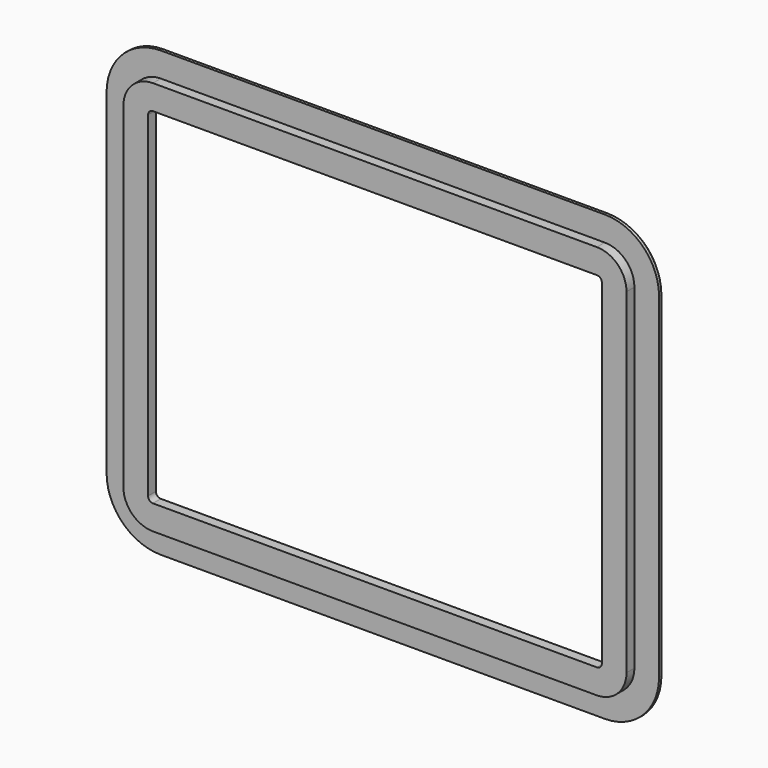
from build123d import *

# Parameters (mm, degrees)
PAD_DEPTH       = 8
PAD001_DEPTH    = 10
POCKET_DEPTH    = 18
POCKET001_DEPTH = 8
POCKET002_DEPTH = 5
CHAMFER_SIZE    = 5


with BuildPart() as part:
    # Sketch → Pad (new body)
    with BuildSketch(Plane.XZ):
        with BuildLine():
            Line((-280, 170), (-280, -170))
            ThreePointArc((-280, -170), (-263.890873, -208.890873), (-225, -225))
            Line((-225, -225), (225, -225))
            ThreePointArc((225, -225), (263.890873, -208.890873), (280, -170))
            Line((280, -170), (280, 170))
            ThreePointArc((280, 170), (263.890873, 208.890873), (225, 225))
            Line((225, 225), (-225, 225))
            ThreePointArc((-225, 225), (-263.890873, 208.890873), (-280, 170))
        make_face()
    extrude(amount=PAD_DEPTH)

    # Sketch001 (on Face10 of Pad) → Pad001 (join)
    with BuildSketch(Plane.XZ.offset(8)):
        with BuildLine():
            Line((-255, 170), (-255, -170))
            ThreePointArc((-255, -170), (-246.213203, -191.213203), (-225, -200))
            Line((-225, -200), (225, -200))
            ThreePointArc((225, -200), (246.213203, -191.213203), (255, -170))
            Line((255, -170), (255, 170))
            ThreePointArc((255, 170), (246.213203, 191.213203), (225, 200))
            Line((225, 200), (-225, 200))
            ThreePointArc((-225, 200), (-246.213203, 191.213203), (-255, 170))
        make_face()
    extrude(amount=PAD001_DEPTH)

    # Sketch002 (on Face4 of Pad001) → Pocket (cut)
    with BuildSketch(Plane(origin=(0, 0, 0), x_dir=(1, 0, 0), z_dir=(0, 1, 0))):
        with BuildLine():
            Line((-230, 170), (-230, -170))
            ThreePointArc((-230, -170), (-228.535534, -173.535534), (-225, -175))
            Line((-225, -175), (225, -175))
            ThreePointArc((225, -175), (228.535534, -173.535534), (230, -170))
            Line((230, -170), (230, 170))
            ThreePointArc((230, 170), (228.535534, 173.535534), (225, 175))
            Line((225, 175), (-225, 175))
            ThreePointArc((-225, 175), (-228.535534, 173.535534), (-230, 170))
        make_face()
    extrude(amount=-POCKET_DEPTH, mode=Mode.SUBTRACT)

    # Sketch003 (on Face4 of Pocket) → Pocket001 (cut)
    with BuildSketch(Plane(origin=(0, 0, 0), x_dir=(1, 0, 0), z_dir=(0, 1, 0))):
        with BuildLine():
            Line((-250, 170), (-250, -170))
            ThreePointArc((-250, -170), (-242.67767, -187.67767), (-225, -195))
            Line((-225, -195), (225, -195))
            ThreePointArc((225, -195), (242.67767, -187.67767), (250, -170))
            Line((250, -170), (250, 170))
            ThreePointArc((250, 170), (242.67767, 187.67767), (225, 195))
            Line((225, 195), (-225, 195))
            ThreePointArc((-225, 195), (-242.67767, 187.67767), (-250, 170))
        make_face()
    extrude(amount=-POCKET001_DEPTH, mode=Mode.SUBTRACT)

    # Sketch004 (on Face27 of Pocket001) → Pocket002 (cut)
    with BuildSketch(Plane(origin=(0, -8, 0), x_dir=(1, 0, 0), z_dir=(0, 1, 0))):
        with BuildLine():
            Line((-244.5, 170), (-244.5, -170))
            ThreePointArc((-244.5, -170), (-238.788582, -183.788582), (-225, -189.5))
            Line((-225, -189.5), (225, -189.5))
            ThreePointArc((225, -189.5), (238.788582, -183.788582), (244.5, -170))
            Line((244.5, -170), (244.5, 170))
            ThreePointArc((244.5, 170), (238.788582, 183.788582), (225, 189.5))
            Line((225, 189.5), (-225, 189.5))
            ThreePointArc((-225, 189.5), (-238.788582, 183.788582), (-244.5, 170))
        make_face()
        with BuildLine():
            Line((-240, 170), (-240, -170))
            ThreePointArc((-240, -170), (-235.606602, -180.606602), (-225, -185))
            Line((-225, -185), (225, -185))
            ThreePointArc((225, -185), (235.606602, -180.606602), (240, -170))
            Line((240, -170), (240, 170))
            ThreePointArc((240, 170), (235.606602, 180.606602), (225, 185))
            Line((225, 185), (-225, 185))
            ThreePointArc((-225, 185), (-235.606602, 180.606602), (-240, 170))
        make_face(mode=Mode.SUBTRACT)
    extrude(amount=-POCKET002_DEPTH, mode=Mode.SUBTRACT)

    # Chamfer
    chamfer_edges = [part.edges().sort_by_distance(p)[0] for p in [
        (0, 0, 225),
        (-263.890873, 0, 208.890873),
        (-280, 0, 0),
        (-263.890873, 0, -208.890873),
        (0, 0, -225),
        (263.890873, 0, -208.890873),
        (280, 0, 0),
        (263.890873, 0, 208.890873),
    ]]
    chamfer(chamfer_edges, length=CHAMFER_SIZE)


solid = part.part
